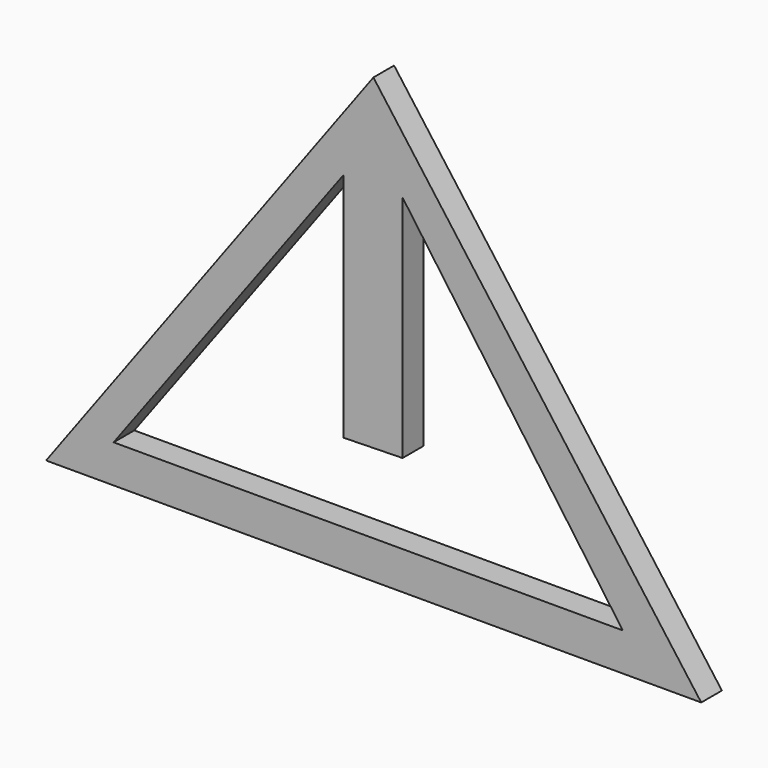
from build123d import *

# Parameters (mm, degrees)
F1_DEPTH = 1.27


with BuildPart() as f1:
    # F0 (on Front) → F1 (new body, symmetric)
    with BuildSketch(Plane.XZ):
        Polygon((-32.148205, 0), (0, 0), (32.198641, 0), (0, 43.575902), align=None)
        Polygon((24.49552, 3.727856), (-25.514841, 3.727856), (-2.913308, 34.21729), (-2.913308, 11.470481), (2.866663, 11.597541), (2.866663, 34.119293), align=None, mode=Mode.SUBTRACT)
    extrude(amount=F1_DEPTH, both=True)


solid = f1.part
